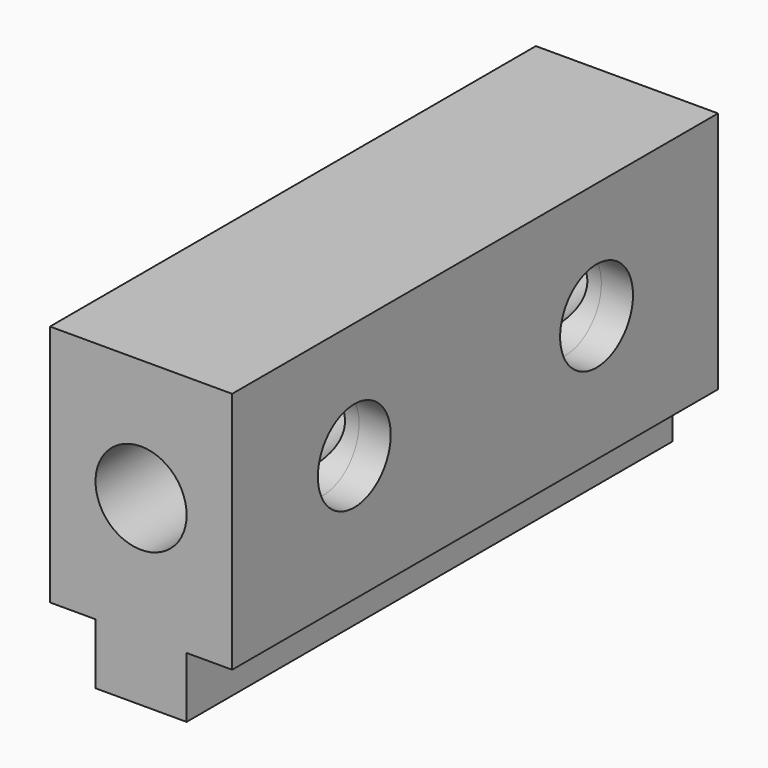
from build123d import *

# Parameters (mm, degrees)
F0_R          = 9.525
F1_DEPTH      = 127
F2_R          = 9.525
F3_DEPTH      = 24.892
F3_DEPTH_BACK = 62.992


with BuildPart() as f1:
    # F0 (on Front) → F1 (new body)
    with BuildSketch(Plane.XZ):
        Polygon((6.620656, 42.305574), (-31.479344, 42.305574), (-31.479344, -8.494426), (-21.954344, -8.494426), (-21.954344, -21.194426), (-2.904344, -21.194426), (-2.904344, -8.494426), (6.620656, -8.494426), align=None)
        with Locations((-12.429344, 16.905574)):
            Circle(F0_R, mode=Mode.SUBTRACT)
    extrude(amount=F1_DEPTH)

    # F2 (on Right) → F3 (cut, two sides)
    with BuildSketch(Plane.YZ) as f3_sk:
        with Locations((-31.75, 17.925737)):
            Circle(F2_R)
        with Locations((-95.083454, 17.925737)):
            Circle(F2_R)
    extrude(amount=F3_DEPTH, mode=Mode.SUBTRACT)
    extrude(f3_sk.sketch, amount=-F3_DEPTH_BACK, mode=Mode.SUBTRACT)


solid = f1.part
